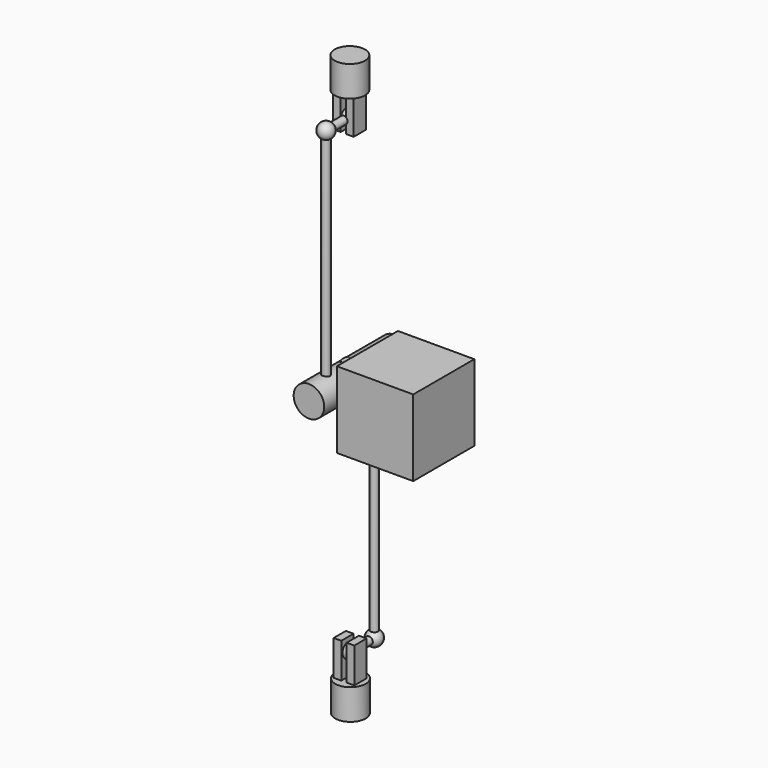
from build123d import *

# Parameters (mm, degrees)
BOX001_W                  = 1
BOX001_H                  = 5
BOX001_DEPTH              = 2
CYLINDER_R                = 1.99
CYLINDER_DEPTH            = 4
BOX002_W                  = 1
BOX002_H                  = 5
BOX002_DEPTH              = 2
CYLINDER001_R             = 0.5
CYLINDER001_DEPTH         = 2
CYLINDER002_R             = 0.5
CYLINDER002_DEPTH         = 4
CYLINDER003_R             = 0.5
CYLINDER003_DEPTH         = 30
BOX003_W                  = 1
BOX003_H                  = 5
BOX003_DEPTH              = 2
CYLINDER005_R             = 1.99
CYLINDER005_DEPTH         = 4
BOX004_W                  = 1
BOX004_H                  = 5
BOX004_DEPTH              = 2
CYLINDER006_R             = 0.5
CYLINDER006_DEPTH         = 2
CYLINDER007_R             = 0.5
CYLINDER007_DEPTH         = 4
CYLINDER004_R             = 0.5
CYLINDER004_DEPTH         = 30
FUSION006_PLACEMENT_ANGLE = 180
CYLINDER008_R             = 2
CYLINDER008_DEPTH         = 10
BOX_W                     = 10
BOX_H                     = 10
BOX_DEPTH                 = 10
CYLINDER009_R             = 2
CYLINDER009_DEPTH         = 14


with BuildPart() as esfera001:
    # Sphere001 → Sphere001 (revolve)
    with BuildSketch(Plane(origin=(0, -3.9, -3.1), x_dir=(1, 0, 0), z_dir=(0, -1, 0))):
        with BuildLine():
            ThreePointArc((0, -1), (1, 0), (0, 1))
            Line((0, 1), (0, -1))
        make_face()
    revolve(axis=Axis((0, -3.9, -3.1), (0, 0, 1)))


with BuildPart() as esfera:
    # Sphere → Sphere (revolve)
    with BuildSketch(Plane(origin=(0, -0.1, -3.1), x_dir=(1, 0, 0), z_dir=(0, -1, 0))):
        with BuildLine():
            ThreePointArc((0, -1), (1, 0), (0, 1))
            Line((0, 1), (0, -1))
        make_face()
    revolve(axis=Axis((0, -0.1, -3.1), (0, 0, 1)))


with BuildPart() as cubo001:
    # Box001 → Box001 (new body)
    with BuildSketch(Plane(origin=(-1.4, -1, 0.4), x_dir=(1, 0, 0), z_dir=(0, 1, 0))):
        with Locations((0.5, 2.5)):
            Rectangle(BOX001_W, BOX001_H)
    extrude(amount=BOX001_DEPTH)


with BuildPart() as cilindro:
    # Cylinder → Cylinder (new body)
    with BuildSketch(Plane.XY):
        Circle(CYLINDER_R)
    extrude(amount=CYLINDER_DEPTH)


with BuildPart() as fusion:
    # Box002 → Box002 (new body)
    with BuildSketch(Plane(origin=(0.3, -1, 0.4), x_dir=(1, 0, 0), z_dir=(0, 1, 0))):
        with Locations((0.5, 2.5)):
            Rectangle(BOX002_W, BOX002_H)
    extrude(amount=BOX002_DEPTH)

    # Fusion: union Cubo001, Cilindro
    add(cubo001.part)
    add(cilindro.part)


with BuildPart() as fusion001:
    # Cylinder001 → Cylinder001 (new body)
    with BuildSketch(Plane(origin=(-0.9, 0, -3.1), x_dir=(0, 0, -1), z_dir=(1, 0, 0))):
        Circle(CYLINDER001_R)
    extrude(amount=CYLINDER001_DEPTH)

    # Fusion001: union Fusion
    add(fusion.part)


with BuildPart() as fusion002:
    # Cylinder002 → Cylinder002 (new body)
    with BuildSketch(Plane(origin=(0, 0, -3.1), x_dir=(1, 0, 0), z_dir=(0, -1, 0))):
        Circle(CYLINDER002_R)
    extrude(amount=CYLINDER002_DEPTH)

    # Fusion002: union Fusion001
    add(fusion001.part)


with BuildPart() as fusion003:
    # Cylinder003 → Cylinder003 (new body)
    with BuildSketch(Plane(origin=(0, -3.9, -33.7), x_dir=(1, 0, 0), z_dir=(0, 0, 1))):
        Circle(CYLINDER003_R)
    extrude(amount=CYLINDER003_DEPTH)

    # Fusion003: union Esfera001, Esfera, Fusion002
    add(esfera001.part)
    add(esfera.part)
    add(fusion002.part)


with BuildPart() as esfera003:
    # Sphere003 → Sphere003 (revolve)
    with BuildSketch(Plane(origin=(0, -3.9, -3.1), x_dir=(1, 0, 0), z_dir=(0, -1, 0))):
        with BuildLine():
            ThreePointArc((0, -1), (1, 0), (0, 1))
            Line((0, 1), (0, -1))
        make_face()
    revolve(axis=Axis((0, -3.9, -3.1), (0, 0, 1)))


with BuildPart() as esfera002:
    # Sphere002 → Sphere002 (revolve)
    with BuildSketch(Plane(origin=(0, -0.1, -3.1), x_dir=(1, 0, 0), z_dir=(0, -1, 0))):
        with BuildLine():
            ThreePointArc((0, -1), (1, 0), (0, 1))
            Line((0, 1), (0, -1))
        make_face()
    revolve(axis=Axis((0, -0.1, -3.1), (0, 0, 1)))


with BuildPart() as cubo003:
    # Box003 → Box003 (new body)
    with BuildSketch(Plane(origin=(-1.4, -1, 0.4), x_dir=(1, 0, 0), z_dir=(0, 1, 0))):
        with Locations((0.5, 2.5)):
            Rectangle(BOX003_W, BOX003_H)
    extrude(amount=BOX003_DEPTH)


with BuildPart() as cilindro005:
    # Cylinder005 → Cylinder005 (new body)
    with BuildSketch(Plane.XY):
        Circle(CYLINDER005_R)
    extrude(amount=CYLINDER005_DEPTH)


with BuildPart() as fusion004:
    # Box004 → Box004 (new body)
    with BuildSketch(Plane(origin=(0.3, -1, 0.4), x_dir=(1, 0, 0), z_dir=(0, 1, 0))):
        with Locations((0.5, 2.5)):
            Rectangle(BOX004_W, BOX004_H)
    extrude(amount=BOX004_DEPTH)

    # Fusion004: union Cubo003, Cilindro005
    add(cubo003.part)
    add(cilindro005.part)


with BuildPart() as fusion005:
    # Cylinder006 → Cylinder006 (new body)
    with BuildSketch(Plane(origin=(-0.9, 0, -3.1), x_dir=(0, 0, -1), z_dir=(1, 0, 0))):
        Circle(CYLINDER006_R)
    extrude(amount=CYLINDER006_DEPTH)

    # Fusion005: union Fusion004
    add(fusion004.part)


with BuildPart() as fusion007:
    # Cylinder007 → Cylinder007 (new body)
    with BuildSketch(Plane(origin=(0, 0, -3.1), x_dir=(1, 0, 0), z_dir=(0, -1, 0))):
        Circle(CYLINDER007_R)
    extrude(amount=CYLINDER007_DEPTH)

    # Fusion007: union Fusion005
    add(fusion005.part)


with BuildPart() as fusion006:
    # Cylinder004 → Cylinder004 (new body)
    with BuildSketch(Plane(origin=(0, -3.9, -32.9), x_dir=(1, 0, 0), z_dir=(0, 0, 1))):
        Circle(CYLINDER004_R)
    extrude(amount=CYLINDER004_DEPTH)

    # Fusion006: union Esfera003, Esfera002, Fusion007
    add(esfera003.part)
    add(esfera002.part)
    add(fusion007.part)


with BuildPart() as fusion006_1:
    # Fusion006 placement: moved
    add(fusion006.part.moved(Location((0, 0.1, -67.9))).rotate(Axis((0, 0.1, -67.9), (1, 0, 0)), FUSION006_PLACEMENT_ANGLE))


with BuildPart() as cilindro008:
    # Cylinder008 → Cylinder008 (new body)
    with BuildSketch(Plane(origin=(9.2, 1, -33.2), x_dir=(0, 1, 0), z_dir=(-1, 0, 0))):
        Circle(CYLINDER008_R)
    extrude(amount=CYLINDER008_DEPTH)


with BuildPart() as cubo:
    # Box → Box (new body)
    with BuildSketch(Plane(origin=(2.3, -4, -39.1), x_dir=(1, 0, 0), z_dir=(0, 0, 1))):
        with Locations((5, 5)):
            Rectangle(BOX_W, BOX_H)
    extrude(amount=BOX_DEPTH)


with BuildPart() as fusion008:
    # Cylinder009 → Cylinder009 (new body)
    with BuildSketch(Plane(origin=(0, -5.7, -33.2), x_dir=(1, 0, 0), z_dir=(0, 1, 0))):
        Circle(CYLINDER009_R)
    extrude(amount=CYLINDER009_DEPTH)

    # Fusion008: union Cilindro008, Cubo
    add(cilindro008.part)
    add(cubo.part)


with BuildPart() as fusion008_1:
    # Fusion008 placement: moved
    add(fusion008.part.moved(Location((0, -1, 0))))


solid = Compound([fusion003.part, fusion006_1.part, fusion008_1.part])
